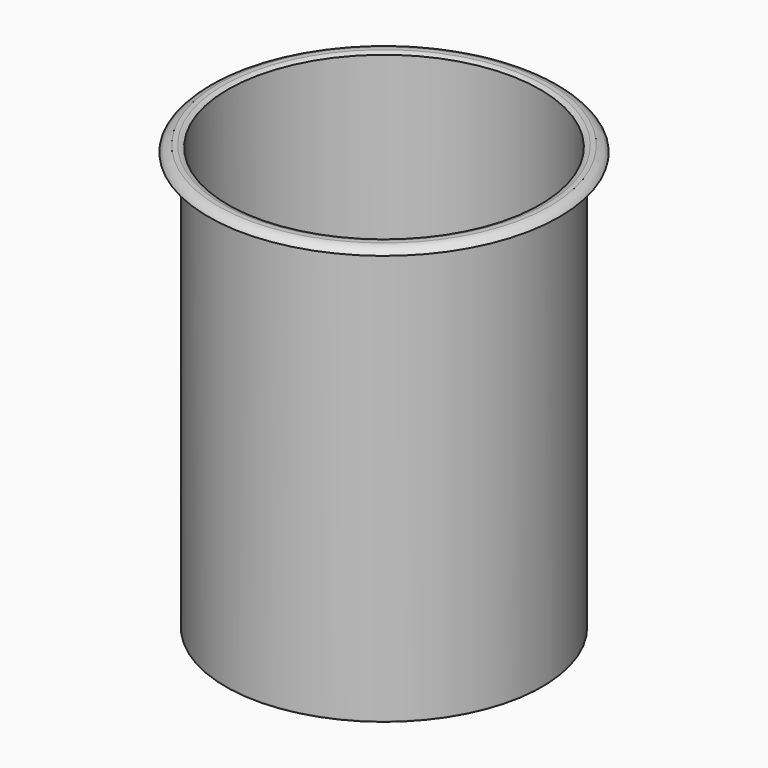
from build123d import *


with BuildPart() as f1:
    # F0 (on Front) → F1 (revolve)
    with BuildSketch(Plane.XZ):
        with BuildLine():
            Line((-61.5, 0), (-1, 0))
            Line((-1, 0), (-1, 0.5))
            Line((-1, 0.5), (-61.5, 0.5))
            Line((-61.5, 0.5), (-61.5, 164.293947))
            ThreePointArc((-61.5, 164.293947), (-62.436346, 164.737428), (-63.438581, 165))
            Line((-63.438581, 165), (-65.25, 165))
            ThreePointArc((-65.25, 165), (-67.379659, 164.175331), (-69, 162.565976))
            Line((-69, 162.565976), (-67.530356, 162.565976))
            ThreePointArc((-67.530356, 162.565976), (-65.25873, 164.183882), (-62.5, 163.774847))
            Line((-62.5, 163.774847), (-62.5, 162.919664))
            Line((-62.5, 162.919664), (-62.5, 0.5))
            ThreePointArc((-62.5, 0.5), (-62.353553, 0.146447), (-62, 0))
            Line((-62, 0), (-61.5, 0))
        make_face()
    revolve(axis=Axis((-1, 0, 17.714524), (0, 0, 1)))


solid = f1.part
